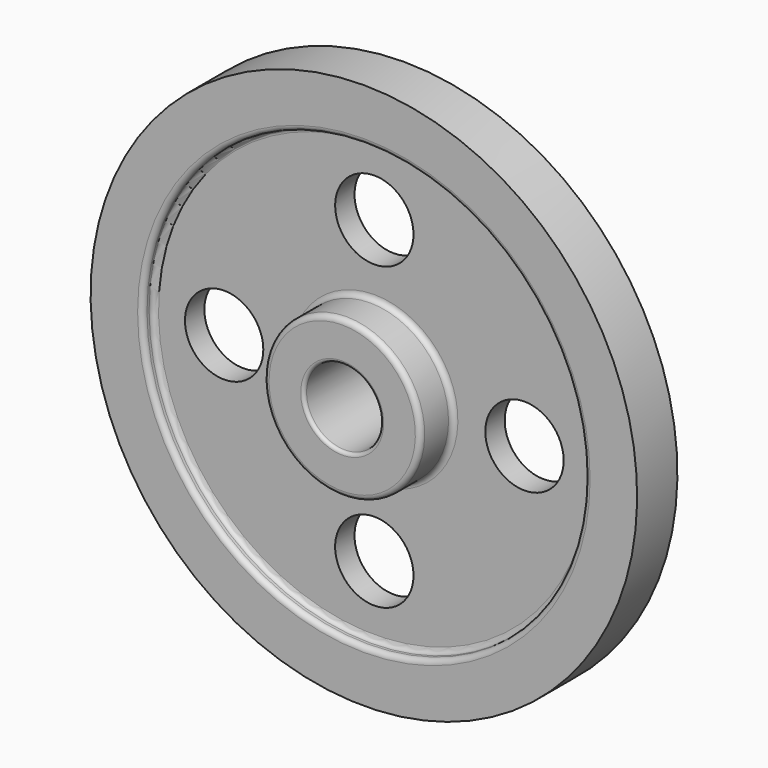
from build123d import *

# Parameters (mm, degrees)
F2_R     = 19.05
F3_DEPTH = 25.4
F4_R     = 2.54
F5_R     = 1.5875
F6_R     = 2.54


with BuildPart() as f1:
    # F0 (on Right) → F1 (revolve)
    with BuildSketch(Plane.YZ):
        Polygon((-24.9362981572, 19.05), (0, 19.05), (0, 133.35), (-11.7725963144, 133.35), (-11.7725963144, 132.8862981572), (-11.7725963144, 107.95), (-5.4225963144, 107.95), (-5.4225963144, 38.5637018428), (-24.9362981572, 38.5637018428), align=None)
        Polygon((0, 133.35), (0, 19.05), (0.9274036856, 19.05), (25.8637018428, 19.05), (25.8637018428, 38.5637018428), (6.35, 38.5637018428), (6.35, 107.95), (12.7, 107.95), (12.7, 132.8862981572), (12.7, 133.35), (0.9274036856, 133.35), align=None)
    revolve(axis=Axis((0, 50.0096045726, 0.4637018428), (0, 1, 0)))

    # F2 (on face) → F3 (cut)
    with BuildSketch(Plane.XZ.offset(5.4225963144)):
        with BuildLine():
            ThreePointArc((19.05, 73.025), (-13.4703841816, 86.4953841816), (0, 53.975))
            ThreePointArc((0, 53.975), (13.4703841816, 59.5546158184), (19.05, 73.025))
        make_face()
        with Locations((-73.025, 0)):
            Circle(F2_R)
        with Locations((73.025, 0)):
            Circle(F2_R)
        with Locations((0, -73.025)):
            Circle(F2_R)
    extrude(amount=-F3_DEPTH, mode=Mode.SUBTRACT)

    # F4
    f4_edges = [f1.edges().sort_by_distance(p)[0] for p in [
        (0, -11.772596, -107.022596),
        (0, -5.422596, -107.022596),
        (0, -24.936298, -37.636298),
        (0, -5.422596, -37.636298),
    ]]
    fillet(f4_edges, radius=F4_R)

    # F5
    f5_edges = [f1.edges().sort_by_distance(p)[0] for p in [
        (0, -24.936298, -18.122596),
    ]]
    fillet(f5_edges, radius=F5_R)

    # F6
    f6_edges = [f1.edges().sort_by_distance(p)[0] for p in [
        (0, 6.35, -37.636298),
        (0, 25.863702, -37.636298),
        (0, 12.7, -107.022596),
        (0, 6.35, -107.022596),
    ]]
    fillet(f6_edges, radius=F6_R)


solid = f1.part
